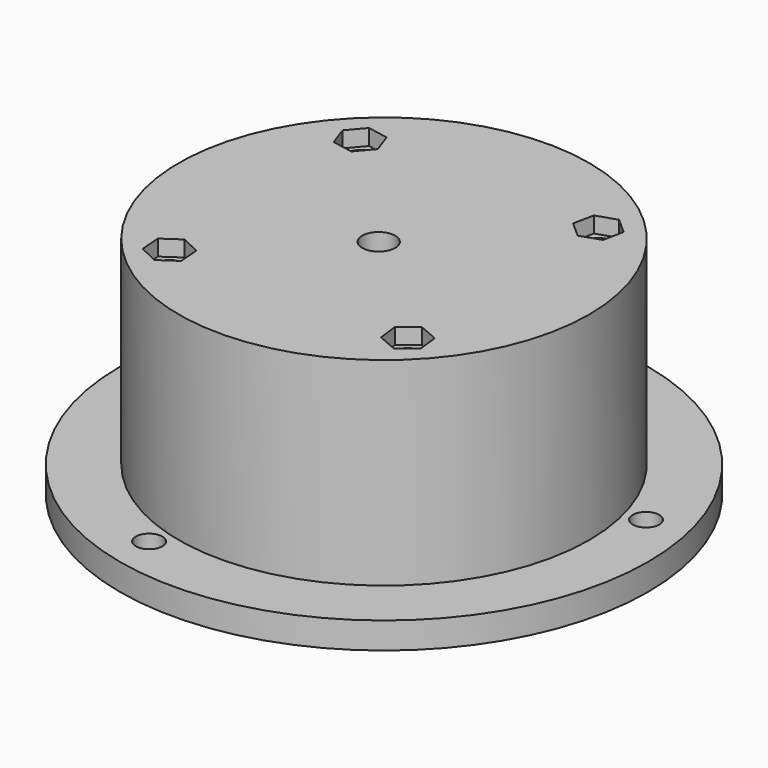
from build123d import *

# Parameters (mm, degrees)
F0_R      = 39.9
F1_DEPTH  = 4
F2_R      = 29
F3_DEPTH  = 4
F4_R      = 31
F5_DEPTH  = 30
F5_FACE_R = 29
F6_DEPTH  = 26
F8_R      = 2
F9_DEPTH  = 4
F11_R     = 2
F12_DEPTH = 4
F13_R     = 2.5
F14_DEPTH = 4
F16_DEPTH = 2.4


with BuildPart() as f1:
    # F0 (on Top) → F1 (new body)
    with BuildSketch(Plane.XY):
        Circle(F0_R)
    extrude(amount=F1_DEPTH)

    # F2 (on face) → F3 (cut)
    with BuildSketch(Plane.XY.offset(4)):
        Circle(F2_R)
    extrude(amount=-F3_DEPTH, mode=Mode.SUBTRACT)

    # F4 (on face) → F5 (join)
    with BuildSketch(Plane.XY.offset(4)):
        Circle(F4_R)
    extrude(amount=F5_DEPTH)

    # F5_face (on face) → F6 (cut)
    with BuildSketch(Plane(origin=(0, 0, 4), x_dir=(1, 0, 0), z_dir=(0, 0, -1))):
        Circle(F5_FACE_R)
    extrude(amount=-F6_DEPTH, mode=Mode.SUBTRACT)

    # F8 (on face) → F9 (cut)
    with BuildSketch(Plane(origin=(0, 0, 0), x_dir=(1, 0, 0), z_dir=(0, 0, -1))):
        with Locations((-23.645058, -24.431767)):
            Circle(F8_R)
        with Locations((-9.336002, 32.693104)):
            Circle(F8_R)
        with Locations((32.98106, -8.261338)):
            Circle(F8_R)
    extrude(amount=-F9_DEPTH, mode=Mode.SUBTRACT)

    # F11 (on face) → F12 (cut)
    with BuildSketch(Plane.XY.offset(34)):
        with Locations((18, 18)):
            Circle(F11_R)
        with Locations((-18, 18)):
            Circle(F11_R)
        with Locations((-18, -18)):
            Circle(F11_R)
        with Locations((18, -18)):
            Circle(F11_R)
    extrude(amount=-F12_DEPTH, mode=Mode.SUBTRACT)

    # F13 (on face) → F14 (cut)
    with BuildSketch(Plane.XY.offset(34)):
        with Locations((0, -1)):
            Circle(F13_R)
    extrude(amount=-F14_DEPTH, mode=Mode.SUBTRACT)

    # F15 (on face) → F16 (cut)
    with BuildSketch(Plane.XY.offset(34)):
        Polygon((15.45842, -19.903603), (18.377779, -21.152874), (20.919359, -19.249271), (20.54158, -16.096397), (17.622221, -14.847126), (15.080641, -16.750729), align=None)
        Polygon((-20.61525, -19.801056), (-17.747865, -21.165401), (-15.132615, -19.364345), (-15.38475, -16.198944), (-18.252135, -14.834599), (-20.867385, -16.635655), align=None)
        Polygon((14.975065, 16.994466), (17.35189, 14.888751), (20.363905, 15.894285), (20.999095, 19.005534), (18.622269, 21.111249), (15.610254, 20.105715), align=None)
        Polygon((-20.066176, 15.588725), (-16.944863, 15.005001), (-14.878686, 17.416276), (-15.933824, 20.411275), (-19.055137, 20.994999), (-21.121314, 18.583724), align=None)
    extrude(amount=-F16_DEPTH, mode=Mode.SUBTRACT)


solid = f1.part
